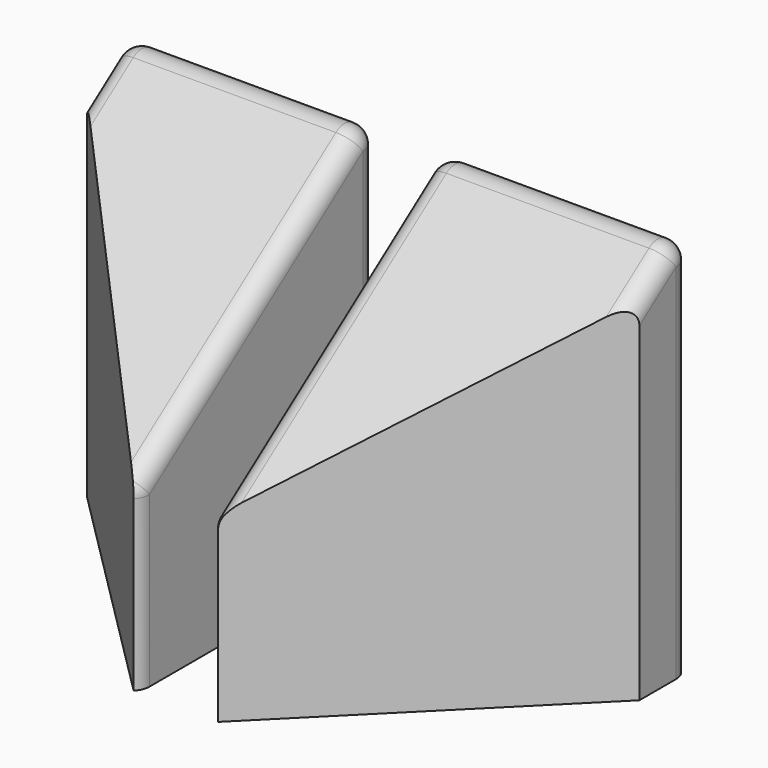
from build123d import *

# Parameters (mm, degrees)
PAD002_DEPTH    = 39
FILLET_R        = 3
POCKET001_DEPTH = 62.113168
PAD003_DEPTH    = 39
FILLET001_R     = 3
POCKET002_DEPTH = 62.113168


with BuildPart() as body002:
    # Sketch003 (on YZ_Plane002 of Origin004) → Pad002 (new body)
    with BuildSketch(Plane.YZ):
        Polygon((40, 0), (40, 29.061701), (89.464825, 65), (89.464825, 0), align=None)
    extrude(amount=PAD002_DEPTH)

    # Fillet
    fillet_edges = [body002.edges().sort_by_distance(p)[0] for p in [
        (19.5, 40, 29.061701),
        (0, 64.732412, 47.030851),
        (0, 40, 14.530851),
        (39, 40, 14.530851),
        (39, 64.732412, 47.030851),
        (19.5, 89.464825, 65),
        (0, 89.464825, 32.5),
        (39, 89.464825, 32.5),
    ]]
    fillet(fillet_edges, radius=FILLET_R)

    # Sketch004 (on Face2 of Fillet) → Pocket001 (cut, through all)
    with BuildSketch(Plane(origin=(0, 0, 0), x_dir=(1, 0, 0), z_dir=(0, 0, -1))):
        Polygon((39, -40), (0, -79), (0, -40), align=None)
    extrude(amount=-POCKET001_DEPTH, mode=Mode.SUBTRACT)


with BuildPart() as body002_1:
    # Body002 placement: moved
    add(body002.part.moved(Location((-50, 0, 0))))


with BuildPart() as body003:
    # Sketch005 → Pad003 (new body)
    with BuildSketch(Plane.YZ):
        Polygon((40, 0), (40, 29.061701), (89.464825, 65), (89.464825, 0), align=None)
    extrude(amount=PAD003_DEPTH)

    # Fillet001
    fillet001_edges = [body003.edges().sort_by_distance(p)[0] for p in [
        (19.5, 40, 29.061701),
        (0, 64.732412, 47.030851),
        (0, 40, 14.530851),
        (39, 40, 14.530851),
        (39, 64.732412, 47.030851),
        (19.5, 89.464825, 65),
        (0, 89.464825, 32.5),
        (39, 89.464825, 32.5),
    ]]
    fillet(fillet001_edges, radius=FILLET001_R)

    # Sketch006 (on Face2 of Fillet001) → Pocket002 (cut, through all)
    with BuildSketch(Plane.YX):
        Polygon((40, 39), (40, 0), (79, 39), align=None)
    extrude(amount=-POCKET002_DEPTH, mode=Mode.SUBTRACT)


with BuildPart() as body003_1:
    # Body003 placement: moved
    add(body003.part.moved(Location((1, 0, 0))))


solid = Compound([body002_1.part, body003_1.part])
